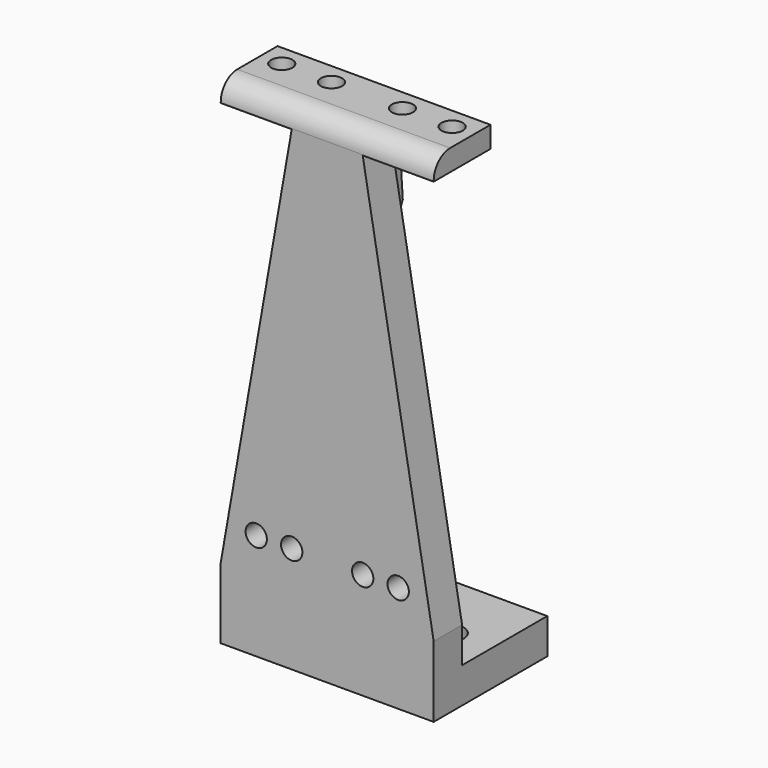
from build123d import *

# Parameters (mm, degrees)
SKETCH_W     = 30
SKETCH_H     = 20
SKETCH_R     = 2.2
PAD_DEPTH    = 5
SKETCH001_R  = 1.5
PAD001_DEPTH = 5
SKETCH002_W  = 30
SKETCH002_H  = 10
SKETCH002_R  = 1.5
PAD002_DEPTH = 3
PAD003_DEPTH = 2
FILLET_R     = 2.9


with BuildPart() as part:
    # Sketch → Pad (new body)
    with BuildSketch(Plane.XY):
        with Locations((15, 10)):
            Rectangle(SKETCH_W, SKETCH_H)
        with Locations((6, 10)):
            Circle(SKETCH_R, mode=Mode.SUBTRACT)
        with Locations((24, 10)):
            Circle(SKETCH_R, mode=Mode.SUBTRACT)
    extrude(amount=PAD_DEPTH)

    # Sketch001 → Pad001 (join)
    with BuildSketch(Plane.XZ):
        Polygon((0, 0), (0, 10), (10, 67), (20, 67), (30, 10), (30, 0), align=None)
        with Locations((5, 15)):
            Circle(SKETCH001_R, mode=Mode.SUBTRACT)
        with Locations((10, 15)):
            Circle(SKETCH001_R, mode=Mode.SUBTRACT)
        with Locations((20, 15)):
            Circle(SKETCH001_R, mode=Mode.SUBTRACT)
        with Locations((25, 15)):
            Circle(SKETCH001_R, mode=Mode.SUBTRACT)
    extrude(amount=-PAD001_DEPTH)

    # Sketch002 → Pad002 (join)
    with BuildSketch(Plane.XY.offset(67)):
        with Locations((15, 5)):
            Rectangle(SKETCH002_W, SKETCH002_H)
        with Locations((3, 7)):
            Circle(SKETCH002_R, mode=Mode.SUBTRACT)
        with Locations((10, 7)):
            Circle(SKETCH002_R, mode=Mode.SUBTRACT)
        with Locations((20, 7)):
            Circle(SKETCH002_R, mode=Mode.SUBTRACT)
        with Locations((27, 7)):
            Circle(SKETCH002_R, mode=Mode.SUBTRACT)
    extrude(amount=PAD002_DEPTH)

    # Sketch003 → Pad003 (join, symmetric)
    with BuildSketch(Plane.YZ.offset(15)):
        with BuildLine():
            Line((0, 0), (15, 0))
            Line((15, 0), (12.551586, 32.808745))
            ThreePointArc((10.80907, 56.158468), (8.565166, 44.251132), (12.551586, 32.808745))
            Line((10.80907, 56.158468), (10, 67))
            Line((10, 67), (0, 67))
            Line((0, 67), (0, 0))
        make_face()
    extrude(amount=PAD003_DEPTH, both=True)

    # Fillet
    fillet_edges = [part.edges().sort_by_distance(p)[0] for p in [
        (15, 0, 70),
    ]]
    fillet(fillet_edges, radius=FILLET_R)


solid = part.part
